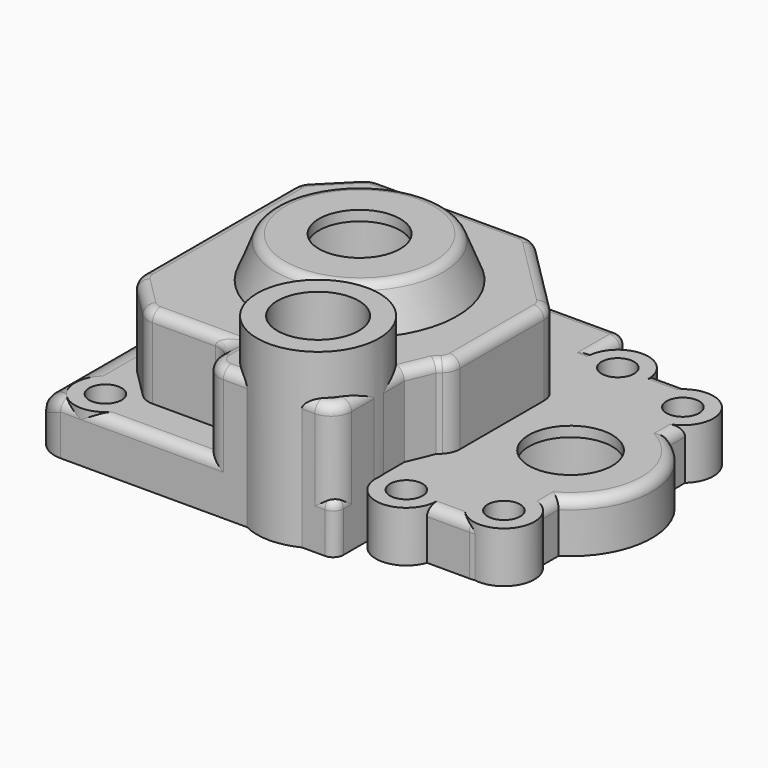
from build123d import *

# Parameters (mm, degrees)
CYLINDER918_R               = 1.6
CYLINDER918_DEPTH           = 14
CYLINDER921_R               = 1.6
CYLINDER921_DEPTH           = 14
CYLINDER919_R               = 1.6
CYLINDER919_DEPTH           = 14
CYLINDER922_R               = 1.6
CYLINDER922_DEPTH           = 14
CYLINDER920_R               = 1.6
CYLINDER920_DEPTH           = 14
CYLINDER917_R               = 1.6
CYLINDER917_DEPTH           = 14
CYLINDER946_R               = 3
CYLINDER946_DEPTH           = 5
CYLINDER949_R               = 3
CYLINDER949_DEPTH           = 5
CYLINDER947_R               = 3
CYLINDER947_DEPTH           = 5
CYLINDER950_R               = 3
CYLINDER950_DEPTH           = 5
CYLINDER948_R               = 3
CYLINDER948_DEPTH           = 5
CYLINDER945_R               = 3
CYLINDER945_DEPTH           = 5
CYLINDER941_R               = 4
CYLINDER941_DEPTH           = 45
CYLINDER940_R               = 5.6
CYLINDER940_DEPTH           = 4
FILLET023_R                 = 1
CYLINDER935_R               = 5.55
CYLINDER935_DEPTH           = 4
CYLINDER936_R               = 4.1
CYLINDER936_DEPTH           = 34
CYLINDER937_R               = 14
CYLINDER937_DEPTH           = 10
CYLINDER911_R               = 15
CYLINDER911_DEPTH           = 13
CYLINDER912_R               = 13
CYLINDER912_DEPTH           = 8
BOX557_W                    = 11.5
BOX557_H                    = 17
BOX557_DEPTH                = 13
FILLET019_R                 = 2
CYLINDER951_R               = 5
CYLINDER951_DEPTH           = 13
CYLINDER951_PLACEMENT_ANGLE = 25.5
CYLINDER934_R               = 8
CYLINDER934_DEPTH           = 5
FILLET022_R                 = 1
CYLINDER932_R               = 4
CYLINDER932_DEPTH           = 17
CYLINDER932_PLACEMENT_ANGLE = 30
CYLINDER933_R               = 6
CYLINDER933_DEPTH           = 17
CYLINDER933_PLACEMENT_ANGLE = 30
CUT014027_PLACEMENT_ANGLE   = -4.5
CYLINDER931_R               = 4.5
CYLINDER931_DEPTH           = 5
CYLINDER931_PLACEMENT_ANGLE = 25.5
BOX003_W                    = 14
BOX003_H                    = 28
BOX003_DEPTH                = 5
FILLET001_R                 = 3
FILLET006_R                 = 1
BOX007_W                    = 30
BOX007_H                    = 36
BOX007_DEPTH                = 5
FILLET010_R                 = 1
FILLET011_R                 = 3
BOX558_W                    = 28
BOX558_H                    = 28
BOX558_DEPTH                = 9
CHAMFER003_SIZE             = 8
CHAMFER004_SIZE             = 4
FILLET020_R                 = 2
FILLET021_R                 = 1
BOX556_W                    = 13
BOX556_H                    = 11
BOX556_DEPTH                = 9
FILLET017_R                 = 2
FILLET018_R                 = 1
CHAMFER005_SIZE             = 2
FILLET025_R                 = 3
CHAMFER006_SIZE             = 3.49
CHAMFER007_SIZE             = 1.5
FILLET027_R                 = 1.99
CHAMFER010_SIZE             = 1.5


with BuildPart() as cylinder918:
    # Cylinder918 → Cylinder918 (new body)
    with BuildSketch(Plane(origin=(-13, -15, -11.5), x_dir=(1, 0, 0), z_dir=(0, 0, 1))):
        Circle(CYLINDER918_R)
    extrude(amount=CYLINDER918_DEPTH)


with BuildPart() as cylinder921:
    # Cylinder921 → Cylinder921 (new body)
    with BuildSketch(Plane(origin=(23, 11, -11.5), x_dir=(1, 0, 0), z_dir=(0, 0, 1))):
        Circle(CYLINDER921_R)
    extrude(amount=CYLINDER921_DEPTH)


with BuildPart() as cylinder919:
    # Cylinder919 → Cylinder919 (new body)
    with BuildSketch(Plane(origin=(15, 13, -11.5), x_dir=(1, 0, 0), z_dir=(0, 0, 1))):
        Circle(CYLINDER919_R)
    extrude(amount=CYLINDER919_DEPTH)


with BuildPart() as cylinder922:
    # Cylinder922 → Cylinder922 (new body)
    with BuildSketch(Plane(origin=(23, -11, -11.5), x_dir=(1, 0, 0), z_dir=(0, 0, 1))):
        Circle(CYLINDER922_R)
    extrude(amount=CYLINDER922_DEPTH)


with BuildPart() as cylinder920:
    # Cylinder920 → Cylinder920 (new body)
    with BuildSketch(Plane(origin=(15, -13, -11.5), x_dir=(1, 0, 0), z_dir=(0, 0, 1))):
        Circle(CYLINDER920_R)
    extrude(amount=CYLINDER920_DEPTH)


with BuildPart() as fusion067:
    # Cylinder917 → Cylinder917 (new body)
    with BuildSketch(Plane(origin=(-13, 15, -11.5), x_dir=(1, 0, 0), z_dir=(0, 0, 1))):
        Circle(CYLINDER917_R)
    extrude(amount=CYLINDER917_DEPTH)

    # Fusion067: union Cylinder918, Cylinder921, Cylinder919, Cylinder922, Cylinder920
    add(cylinder918.part)
    add(cylinder921.part)
    add(cylinder919.part)
    add(cylinder922.part)
    add(cylinder920.part)


with BuildPart() as fusion067_1:
    # Fusion067 placement: moved
    add(fusion067.part.moved(Location((0, 0, 9))))


with BuildPart() as cylinder946:
    # Cylinder946 → Cylinder946 (new body)
    with BuildSketch(Plane(origin=(-13, -15, -11.5), x_dir=(1, 0, 0), z_dir=(0, 0, 1))):
        Circle(CYLINDER946_R)
    extrude(amount=CYLINDER946_DEPTH)


with BuildPart() as cylinder949:
    # Cylinder949 → Cylinder949 (new body)
    with BuildSketch(Plane(origin=(23, 11, -11.5), x_dir=(1, 0, 0), z_dir=(0, 0, 1))):
        Circle(CYLINDER949_R)
    extrude(amount=CYLINDER949_DEPTH)


with BuildPart() as cylinder947:
    # Cylinder947 → Cylinder947 (new body)
    with BuildSketch(Plane(origin=(15, 13, -11.5), x_dir=(1, 0, 0), z_dir=(0, 0, 1))):
        Circle(CYLINDER947_R)
    extrude(amount=CYLINDER947_DEPTH)


with BuildPart() as cylinder950:
    # Cylinder950 → Cylinder950 (new body)
    with BuildSketch(Plane(origin=(23, -11, -11.5), x_dir=(1, 0, 0), z_dir=(0, 0, 1))):
        Circle(CYLINDER950_R)
    extrude(amount=CYLINDER950_DEPTH)


with BuildPart() as cylinder948:
    # Cylinder948 → Cylinder948 (new body)
    with BuildSketch(Plane(origin=(15, -13, -11.5), x_dir=(1, 0, 0), z_dir=(0, 0, 1))):
        Circle(CYLINDER948_R)
    extrude(amount=CYLINDER948_DEPTH)


with BuildPart() as fusion091:
    # Cylinder945 → Cylinder945 (new body)
    with BuildSketch(Plane(origin=(-13, 15, -11.5), x_dir=(1, 0, 0), z_dir=(0, 0, 1))):
        Circle(CYLINDER945_R)
    extrude(amount=CYLINDER945_DEPTH)

    # Fusion091: union Cylinder946, Cylinder949, Cylinder947, Cylinder950, Cylinder948
    add(cylinder946.part)
    add(cylinder949.part)
    add(cylinder947.part)
    add(cylinder950.part)
    add(cylinder948.part)


with BuildPart() as fusion091_1:
    # Fusion091 placement: moved
    add(fusion091.part.moved(Location((0, 0, 18))))


with BuildPart() as cylinder941:
    # Cylinder941 → Cylinder941 (new body)
    with BuildSketch(Plane.XY.offset(-19.5)):
        Circle(CYLINDER941_R)
    extrude(amount=CYLINDER941_DEPTH)


with BuildPart() as fusion085:
    # Cylinder940 → Cylinder940 (new body)
    with BuildSketch(Plane.XY.offset(18.5)):
        Circle(CYLINDER940_R)
    extrude(amount=CYLINDER940_DEPTH)

    # Fusion085: union Cylinder941
    add(cylinder941.part)


with BuildPart() as fillet023:
    # Cone → Cone (revolve)
    with BuildSketch(Plane(origin=(0, 0, 18.5), x_dir=(1, 0, 0), z_dir=(0, -1, 0))):
        Polygon((0, 0), (10, 0), (8, 5), (0, 5), align=None)
    revolve(axis=Axis((0, 0, 18.5), (0, 0, 1)))

    # Fillet023
    fillet023_edges = [fillet023.edges().sort_by_distance(p)[0] for p in [
        (-8, 0, 23.5),
    ]]
    fillet(fillet023_edges, radius=FILLET023_R)


with BuildPart() as cylinder935:
    # Cylinder935 → Cylinder935 (new body)
    with BuildSketch(Plane(origin=(20.75, 0, 6.5), x_dir=(1, 0, 0), z_dir=(0, 0, 1))):
        Circle(CYLINDER935_R)
    extrude(amount=CYLINDER935_DEPTH)


with BuildPart() as cylinder936:
    # Cylinder936 → Cylinder936 (new body)
    with BuildSketch(Plane(origin=(20.75, 0, -14.5), x_dir=(1, 0, 0), z_dir=(0, 0, 1))):
        Circle(CYLINDER936_R)
    extrude(amount=CYLINDER936_DEPTH)


with BuildPart() as fusion083:
    # Cylinder937 → Cylinder937 (new body)
    with BuildSketch(Plane.XY.offset(0.5)):
        Circle(CYLINDER937_R)
    extrude(amount=CYLINDER937_DEPTH)

    # Fusion083: union Cylinder935, Cylinder936
    add(cylinder935.part)
    add(cylinder936.part)


with BuildPart() as cylinder911:
    # Cylinder911 → Cylinder911 (new body)
    with BuildSketch(Plane.XY.offset(-2.5)):
        Circle(CYLINDER911_R)
    extrude(amount=CYLINDER911_DEPTH)


with BuildPart() as cylinder912:
    # Cylinder912 → Cylinder912 (new body)
    with BuildSketch(Plane.XY.offset(10.5)):
        Circle(CYLINDER912_R)
    extrude(amount=CYLINDER912_DEPTH)


with BuildPart() as fusion092:
    # Box557 → Box557 (new body)
    with BuildSketch(Plane(origin=(0, -16.5, 5.5), x_dir=(1, 0, 0), z_dir=(0, 0, 1))):
        with Locations((5.75, 8.5)):
            Rectangle(BOX557_W, BOX557_H)
    extrude(amount=BOX557_DEPTH)

    # Fillet019
    fillet019_edges = [fusion092.edges().sort_by_distance(p)[0] for p in [
        (0, -16.5, 12),
        (11.5, -16.5, 12),
    ]]
    fillet(fillet019_edges, radius=FILLET019_R)


with BuildPart() as fusion092_1:
    # Fillet019 placement: moved
    add(fusion092.part.moved(Location((0, -0.75, 0))))

    # Fusion092: union Cylinder911, Cylinder912
    add(cylinder911.part)
    add(cylinder912.part)


with BuildPart() as fusion096:
    # Cylinder951 → Cylinder951 (new body)
    with BuildSketch(Plane.XY):
        Circle(CYLINDER951_R)
    extrude(amount=CYLINDER951_DEPTH)


with BuildPart() as fusion096_1:
    # Cylinder951 placement: moved
    add(fusion096.part.moved(Location((6.02716, -12.6362, 5.5))).rotate(Axis((6.02716, -12.6362, 5.5), (0, 0, 1)), CYLINDER951_PLACEMENT_ANGLE))

    # Fusion096: union Fusion092
    add(fusion092_1.part)


with BuildPart() as fillet022:
    # Cylinder934 → Cylinder934 (new body)
    with BuildSketch(Plane(origin=(20.75, 0, 6.5), x_dir=(1, 0, 0), z_dir=(0, 0, 1))):
        Circle(CYLINDER934_R)
    extrude(amount=CYLINDER934_DEPTH)

    # Fillet022
    fillet022_edges = [fillet022.edges().sort_by_distance(p)[0] for p in [
        (12.75, 0, 11.5),
    ]]
    fillet(fillet022_edges, radius=FILLET022_R)


with BuildPart() as cylinder1032:
    # Cylinder932 → Cylinder932 (new body)
    with BuildSketch(Plane.XY):
        Circle(CYLINDER932_R)
    extrude(amount=CYLINDER932_DEPTH)


with BuildPart() as cylinder1032_1:
    # Cylinder932 placement: moved
    add(cylinder1032.part.moved(Location((7, -12.1244, 6.5))).rotate(Axis((7, -12.1244, 6.5), (0, 0, 1)), CYLINDER932_PLACEMENT_ANGLE))


with BuildPart() as cut014027:
    # Cylinder933 → Cylinder933 (new body)
    with BuildSketch(Plane.XY):
        Circle(CYLINDER933_R)
    extrude(amount=CYLINDER933_DEPTH)


with BuildPart() as cut014027_1:
    # Cylinder933 placement: moved
    add(cut014027.part.moved(Location((7, -12.1244, 6.5))).rotate(Axis((7, -12.1244, 6.5), (0, 0, 1)), CYLINDER933_PLACEMENT_ANGLE))

    # Cut014027: cut Cylinder1032
    add(cylinder1032_1.part, mode=Mode.SUBTRACT)


with BuildPart() as cut014027_2:
    # Cut014027 placement: moved
    add(cut014027_1.part.rotate(Axis((0, 0, 0), (0, 0, 1)), CUT014027_PLACEMENT_ANGLE))


with BuildPart() as cylinder1031:
    # Cylinder931 → Cylinder931 (new body)
    with BuildSketch(Plane.XY):
        Circle(CYLINDER931_R)
    extrude(amount=CYLINDER931_DEPTH)


with BuildPart() as cylinder1031_1:
    # Cylinder931 placement: moved
    add(cylinder1031.part.moved(Location((6.027155, -12.636194, 18.5))).rotate(Axis((6.027155, -12.636194, 18.5), (0, 0, 1)), CYLINDER931_PLACEMENT_ANGLE))


with BuildPart() as fillet006:
    # Box003 → Box003 (new body)
    with BuildSketch(Plane(origin=(10, -14, 6.5), x_dir=(1, 0, 0), z_dir=(0, 0, 1))):
        with Locations((7, 14)):
            Rectangle(BOX003_W, BOX003_H)
    extrude(amount=BOX003_DEPTH)

    # Fillet001
    fillet001_edges = [fillet006.edges().sort_by_distance(p)[0] for p in [
        (24, -14, 9),
        (24, 14, 9),
    ]]
    fillet(fillet001_edges, radius=FILLET001_R)

    # Fillet006
    fillet006_edges = [fillet006.edges().sort_by_distance(p)[0] for p in [
        (24, 0, 11.5),
    ]]
    fillet(fillet006_edges, radius=FILLET006_R)


with BuildPart() as fillet006_1:
    # Fillet006 placement: moved
    add(fillet006.part.moved(Location((1, 0, 0))))


with BuildPart() as fillet011:
    # Box007 → Box007 (new body)
    with BuildSketch(Plane(origin=(-18, -18, 6.5), x_dir=(1, 0, 0), z_dir=(0, 0, 1))):
        with Locations((15, 18)):
            Rectangle(BOX007_W, BOX007_H)
    extrude(amount=BOX007_DEPTH)

    # Fillet010
    fillet010_edges = [fillet011.edges().sort_by_distance(p)[0] for p in [
        (12, -18, 9),
        (12, 0, 11.5),
        (12, 18, 9),
        (-3, -18, 11.5),
        (-3, 18, 11.5),
    ]]
    fillet(fillet010_edges, radius=FILLET010_R)

    # Fillet011
    fillet011_edges = [fillet011.edges().sort_by_distance(p)[0] for p in [
        (-18, -18, 8.5),
        (-18, 0, 11.5),
        (-18, 18, 8.5),
    ]]
    fillet(fillet011_edges, radius=FILLET011_R)


with BuildPart() as fillet021:
    # Box558 → Box558 (new body)
    with BuildSketch(Plane(origin=(-14, -14, 10.5), x_dir=(1, 0, 0), z_dir=(0, 0, 1))):
        with Locations((14, 14)):
            Rectangle(BOX558_W, BOX558_H)
    extrude(amount=BOX558_DEPTH)

    # Chamfer003
    chamfer003_edges = [fillet021.edges().sort_by_distance(p)[0] for p in [
        (14, -14, 15),
        (14, 14, 15),
    ]]
    chamfer(chamfer003_edges, length=CHAMFER003_SIZE)

    # Chamfer004
    chamfer004_edges = [fillet021.edges().sort_by_distance(p)[0] for p in [
        (-14, 14, 15),
        (-14, -14, 15),
    ]]
    chamfer(chamfer004_edges, length=CHAMFER004_SIZE)

    # Fillet020
    fillet020_edges = [fillet021.edges().sort_by_distance(p)[0] for p in [
        (-10, 14, 15),
        (6, 14, 15),
        (-14, 10, 15),
        (14, 6, 15),
        (-14, -10, 15),
        (14, -6, 15),
        (-10, -14, 15),
        (6, -14, 15),
    ]]
    fillet(fillet020_edges, radius=FILLET020_R)

    # Fillet021
    fillet021_edges = [fillet021.edges().sort_by_distance(p)[0] for p in [
        (-2, 14, 19.5),
        (-12, 12, 19.5),
        (10, 10, 19.5),
        (-14, 0, 19.5),
        (14, 0, 19.5),
        (-12, -12, 19.5),
        (10, -10, 19.5),
        (-2, -14, 19.5),
    ]]
    fillet(fillet021_edges, radius=FILLET021_R)


with BuildPart() as chamfer010:
    # Box556 → Box556 (new body)
    with BuildSketch(Plane(origin=(-1, -17, 10.5), x_dir=(1, 0, 0), z_dir=(0, 0, 1))):
        with Locations((6.5, 5.5)):
            Rectangle(BOX556_W, BOX556_H)
    extrude(amount=BOX556_DEPTH)

    # Fillet017
    fillet017_edges = [chamfer010.edges().sort_by_distance(p)[0] for p in [
        (-1, -17, 15),
        (12, -17, 15),
    ]]
    fillet(fillet017_edges, radius=FILLET017_R)

    # Fillet018
    fillet018_edges = [chamfer010.edges().sort_by_distance(p)[0] for p in [
        (-1, -10.5, 19.5),
        (-0.414214, -16.414214, 19.5),
        (5.5, -17, 19.5),
        (12, -10.5, 19.5),
        (11.414214, -16.414214, 19.5),
    ]]
    fillet(fillet018_edges, radius=FILLET018_R)


with BuildPart() as chamfer010_1:
    # Fillet018 placement: moved
    add(chamfer010.part.moved(Location((0, -1, 0))))

    # Fusion093: union Fillet006, Fillet011, Fillet021
    add(fillet006_1.part)
    add(fillet011.part)
    add(fillet021.part)

    # Cut014036: cut Cylinder1031
    add(cylinder1031_1.part, mode=Mode.SUBTRACT)

    # Fusion094: union Cut014027
    add(cut014027_2.part)

    # Fusion095: union Fillet022
    add(fillet022.part)

    # Cut014037: cut Fusion096
    add(fusion096_1.part, mode=Mode.SUBTRACT)

    # Cut014038: cut Fusion083
    add(fusion083.part, mode=Mode.SUBTRACT)

    # Fusion097: union Fillet023
    add(fillet023.part)

    # Cut014039: cut Fusion085
    add(fusion085.part, mode=Mode.SUBTRACT)

    # Fusion098: union Fusion091
    add(fusion091_1.part)

    # Cut014040: cut Fusion067
    add(fusion067_1.part, mode=Mode.SUBTRACT)

    # Chamfer005
    chamfer005_edges = [chamfer010_1.edges().sort_by_distance(p)[0] for p in [
        (0, -13, 14.5),
    ]]
    chamfer(chamfer005_edges, length=CHAMFER005_SIZE)

    # Fillet025
    fillet025_edges = [chamfer010_1.edges().sort_by_distance(p)[0] for p in [
        (-1.994074, -12.846154, 14.5),
    ]]
    fillet(fillet025_edges, radius=FILLET025_R)

    # Chamfer006
    chamfer006_edges = [chamfer010_1.edges().sort_by_distance(p)[0] for p in [
        (11.5, -6.062178, 14.5),
    ]]
    chamfer(chamfer006_edges, length=CHAMFER006_SIZE)

    # Chamfer007
    chamfer007_edges = [chamfer010_1.edges().sort_by_distance(p)[0] for p in [
        (7.954036, -17.25, 12.5),
        (4.100284, -17.25, 12.5),
    ]]
    chamfer(chamfer007_edges, length=CHAMFER007_SIZE)

    # Fillet027
    fillet027_edges = [chamfer010_1.edges().sort_by_distance(p)[0] for p in [
        (-1, -14, 15),
    ]]
    fillet(fillet027_edges, radius=FILLET027_R)


with BuildPart() as chamfer010_2:
    # Fillet027 placement: moved
    add(chamfer010_1.part.moved(Location((0, 0, 1))))

    # Chamfer010
    chamfer010_edges = [chamfer010_2.edges().sort_by_distance(p)[0] for p in [
        (12, -8, 16),
    ]]
    chamfer(chamfer010_edges, length=CHAMFER010_SIZE)


solid = chamfer010_2.part
